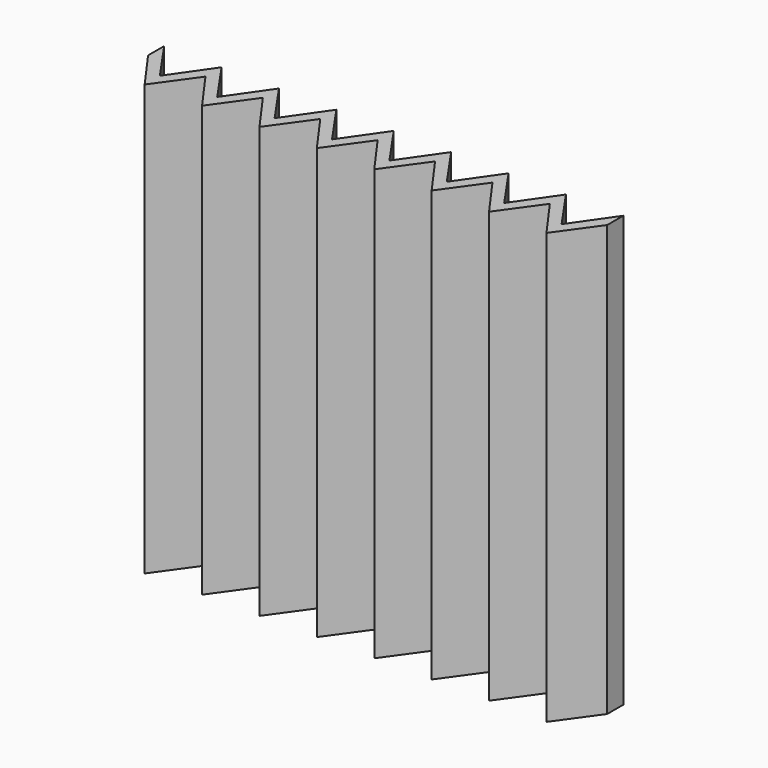
from build123d import *

# Parameters (mm, degrees)
F1_DEPTH = 190.5


with BuildPart() as f1:
    # F0 (on Top) → F1 (new body)
    with BuildSketch(Plane.XY):
        Polygon((-50.8, 0), (-63.5, 18.276649), (-63.5, 9.374281), (-50.8, -8.384577), (-38.1, 9.374281), (-25.4, -8.384577), (-12.7, 9.374281), (0, -8.384577), (12.7, 9.374281), (25.4, -8.384577), (38.1, 9.374281), (50.8, -8.384577), (63.5, 9.374281), (76.2, -8.384577), (88.9, 9.374281), (101.6, -8.384577), (114.3, 9.374281), (127, -8.384577), (139.7, 9.374281), (139.7, 18.276649), (127, 0), (114.3, 18.276649), (101.6, 0), (88.9, 18.276649), (76.2, 0), (63.5, 18.276649), (50.8, 0), (38.1, 18.276649), (25.4, 0), (12.7, 18.276649), (0, 0), (-12.7, 18.276649), (-25.4, 0), (-38.1, 18.276649), align=None)
    extrude(amount=F1_DEPTH)


solid = f1.part
